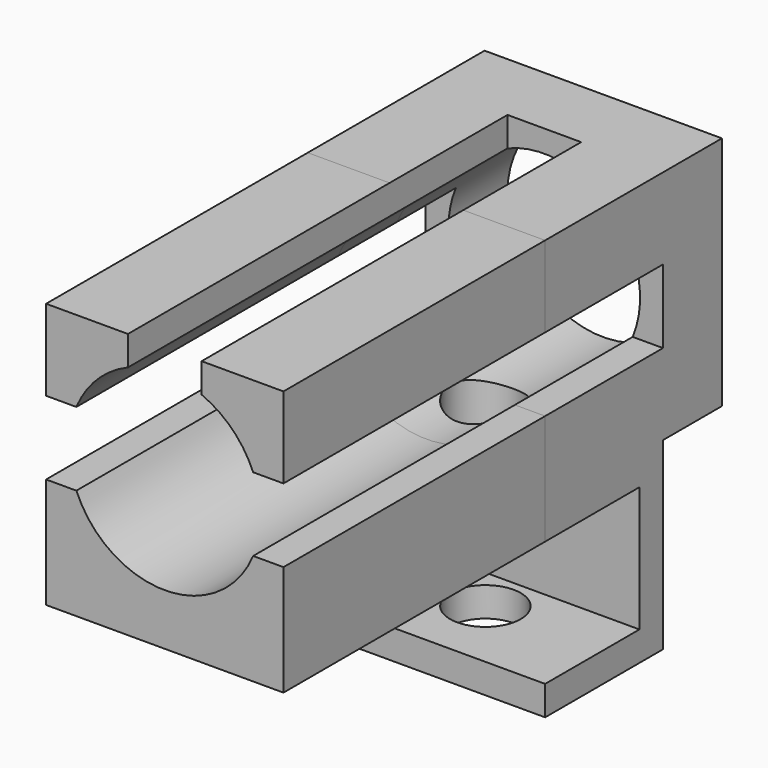
from build123d import *

# Parameters (mm, degrees)
F0_W           = 80.5555507541
F0_H           = 80
F1_DEPTH       = 175
F2_R           = 32.5
F3_DEPTH       = 300
F4_W           = 25
F4_H           = 300
F5_DEPTH       = 80.001
F6_W           = 300
F6_H           = 25
F7_DEPTH       = 80.5565507541
F8_W           = 80.5555507541
F8_H           = 48.411038518
F9_DEPTH       = 25
F10_R          = 14.0956143059
F11_DEPTH      = 25.001
F13_W          = 80.5555507541
F13_H          = 50
F14_DEPTH      = 10
F14_DEPTH_BACK = 62.5
F15_DEPTH      = 25
F17_DEPTH      = 80.5565507541
F18_R          = 32.5
F19_DEPTH      = 75.001
F20_W          = 3.1050710324
F20_H          = 42.5
F20_W_2        = 40
F21_DEPTH      = 80.5565507541
F22_R          = 12
F23_DEPTH      = 142.501
F24_DEPTH      = 111


with BuildPart() as f1:
    # F0 (on Front) → F1 (new body, symmetric)
    with BuildSketch(Plane.XZ):
        Rectangle(F0_W, F0_H)
    extrude(amount=F1_DEPTH, both=True)

    # F2 (on face) → F3 (cut)
    with BuildSketch(Plane.XZ.offset(175)):
        Circle(F2_R)
    extrude(amount=-F3_DEPTH, mode=Mode.SUBTRACT)

    # F4 (on face) → F5 (cut, through all)
    with BuildSketch(Plane.XY.offset(40)):
        Rectangle(F4_W, F4_H)
    extrude(amount=-F5_DEPTH, mode=Mode.SUBTRACT)

    # F6 (on face) → F7 (cut, through all)
    with BuildSketch(Plane.YZ.offset(40.277775377)):
        Rectangle(F6_W, F6_H)
    extrude(amount=-F7_DEPTH, mode=Mode.SUBTRACT)

    # F8 (on face) → F9 (join)
    with BuildSketch(Plane(origin=(0, 0, -40), x_dir=(1, 0, 0), z_dir=(0, 0, -1))):
        with Locations((0, -199.205519259)):
            Rectangle(F8_W, F8_H)
    extrude(amount=-F9_DEPTH)

    # F10 (on face) → F11 (cut, through all)
    with BuildSketch(Plane.XY.offset(-15)):
        with Locations((0, 199.205519259)):
            Circle(F10_R)
    extrude(amount=-F11_DEPTH, mode=Mode.SUBTRACT)

    # F13 (on offset) → F14 (join, two sides)
    with BuildSketch(Plane.XY.offset(-40)) as f14_sk:
        with Locations((0, 125)):
            Rectangle(F13_W, F13_H)
    extrude(amount=F14_DEPTH)
    extrude(f14_sk.sketch, amount=-F14_DEPTH_BACK)

    # F15 (cut): a face of the model
    f15_faces = [f1.faces().sort_by_distance(p)[0] for p in [
        (0, 175.9398311235, -15),
    ]]
    extrude(f15_faces, amount=-F15_DEPTH, mode=Mode.SUBTRACT)

    # F16 (on face) → F17 (cut, through all)
    with BuildSketch(Plane.YZ.offset(40.277775377)):
        Polygon((100, 79.5669853687), (-178.8060516119, 79.5669853687), (-178.8060516119, -116.9548779726), (100, -116.9548779726), (100, -102.5), (100, -40), (-175, -40), (-175, 40), (100, 40), align=None)
        Polygon((100, 12.5), (100, 40), (-175, 40), (-175, -40), (100, -40), (100, -12.5), (-150, -12.5), (-150, 12.5), align=None)
    extrude(amount=-F17_DEPTH, mode=Mode.SUBTRACT)

    # F18 (on face) → F19 (cut, through all)
    with BuildSketch(Plane(origin=(0, 175, 0), x_dir=(-1, 0, 0), z_dir=(0, 1, 0))):
        Circle(F18_R)
    extrude(amount=-F19_DEPTH, mode=Mode.SUBTRACT)

    # F20 (on face) → F21 (cut, through all)
    with BuildSketch(Plane.YZ.offset(40.277775377)):
        with Locations((98.4474644838, -71.25)):
            Rectangle(F20_W, F20_H)
        with Locations((120, -71.25)):
            Rectangle(F20_W_2, F20_H)
    extrude(amount=-F21_DEPTH, mode=Mode.SUBTRACT)

    # F22 (on face) → F23 (cut, through all)
    with BuildSketch(Plane(origin=(0, 0, -102.5), x_dir=(1, 0, 0), z_dir=(0, 0, -1))):
        with Locations((0, -125)):
            Circle(F22_R)
    extrude(amount=-F23_DEPTH, mode=Mode.SUBTRACT)

    # F17_face (on face) + F21_face (on face) → F24 (join)
    with BuildSketch(Plane(origin=(-28.870034174, 100, 28.6839226626), x_dir=(1, 0, 0), z_dir=(0, -1, 0))):
        with BuildLine():
            ThreePointArc((-1.129965826, -16.1839226626), (5.8890637854, -5.7029522741), (16.370034174, 1.3160773374))
            Line((16.370034174, 1.3160773374), (16.370034174, 11.3160773374))
            Line((16.370034174, 11.3160773374), (-11.4077412031, 11.3160773374))
            Line((-11.4077412031, 11.3160773374), (-11.4077412031, -16.1839226626))
            Line((-11.4077412031, -16.1839226626), (-1.129965826, -16.1839226626))
        make_face()
        with BuildLine():
            Line((69.147809551, -16.1839226626), (69.147809551, 11.3160773374))
            Line((69.147809551, 11.3160773374), (41.370034174, 11.3160773374))
            Line((41.370034174, 11.3160773374), (41.370034174, 1.3160773374))
            ThreePointArc((41.370034174, 1.3160773374), (51.8510045625, -5.7029522741), (58.870034174, -16.1839226626))
            Line((58.870034174, -16.1839226626), (69.147809551, -16.1839226626))
        make_face()
    with BuildSketch(Plane(origin=(0, 100, -35.4746848598), x_dir=(1, 0, 0), z_dir=(0, -1, 0))):
        with BuildLine():
            Line((-40.277775377, 22.9746848598), (-40.277775377, -14.5253151402))
            Line((-40.277775377, -14.5253151402), (40.277775377, -14.5253151402))
            Line((40.277775377, -14.5253151402), (40.277775377, 22.9746848598))
            Line((40.277775377, 22.9746848598), (30, 22.9746848598))
            ThreePointArc((30, 22.9746848598), (0, 2.9746848598), (-30, 22.9746848598))
            Line((-30, 22.9746848598), (-40.277775377, 22.9746848598))
        make_face()
    extrude(amount=F24_DEPTH)


solid = f1.part
